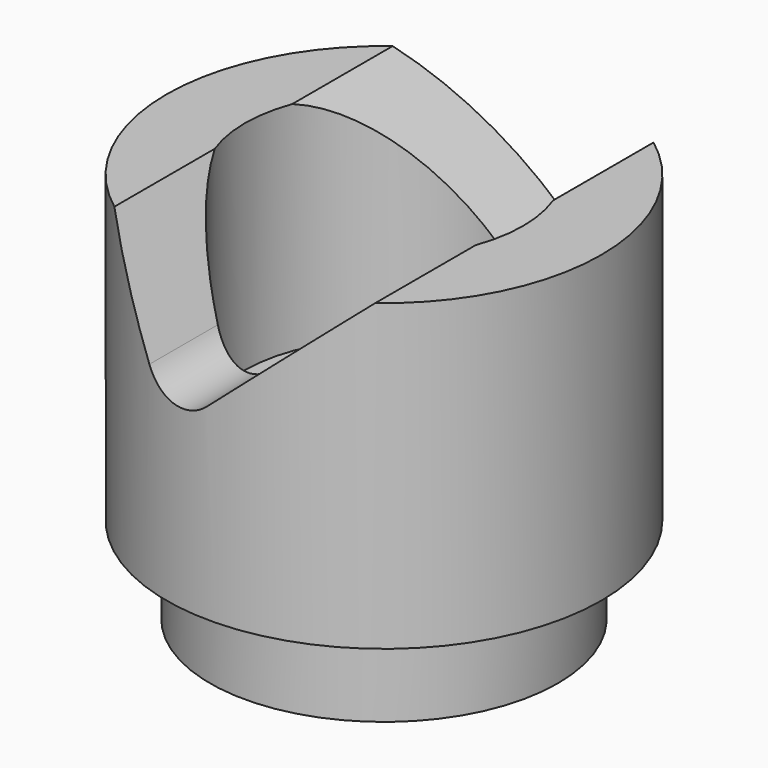
from build123d import *

# Parameters (mm, degrees)
PAD002_DEPTH    = 10
PAD001_DEPTH    = 12
SKETCH_R        = 5
SKETCH_R_2      = 1.6
PAD_DEPTH       = 9
SKETCH001_R     = 3.2
POCKET_DEPTH    = 5
SKETCH002_R     = 5
SKETCH002_R_2   = 4
POCKET001_DEPTH = 2
FILLET_R        = 1


with BuildPart() as pad002:
    # Sketch004 → Pad002 (new body)
    with BuildSketch(Plane.XZ):
        Polygon((-3, 9), (1, 5.5), (3, 9), align=None)
    extrude(amount=-PAD002_DEPTH)


with BuildPart() as pad001:
    # Sketch003 → Pad001 (new body)
    with BuildSketch(Plane.XZ):
        Polygon((-3, 9), (-1, 5.5), (3, 9), align=None)
    extrude(amount=PAD001_DEPTH)


with BuildPart() as fillet_body:
    # Sketch → Pad (new body)
    with BuildSketch(Plane.XY):
        Circle(SKETCH_R)
        Circle(SKETCH_R_2, mode=Mode.SUBTRACT)
    extrude(amount=PAD_DEPTH)

    # Sketch001 → Pocket (cut)
    with BuildSketch(Plane.XY.offset(9)):
        Circle(SKETCH001_R)
    extrude(amount=-POCKET_DEPTH, mode=Mode.SUBTRACT)

    # Sketch002 → Pocket001 (cut)
    with BuildSketch(Plane(origin=(0, 0, 0), x_dir=(1, 0, 0), z_dir=(0, 0, -1))):
        Circle(SKETCH002_R)
        Circle(SKETCH002_R_2, mode=Mode.SUBTRACT)
    extrude(amount=-POCKET001_DEPTH, mode=Mode.SUBTRACT)

    # Cut: cut Pad001
    add(pad001.part, mode=Mode.SUBTRACT)

    # Cut001: cut Pad002
    add(pad002.part, mode=Mode.SUBTRACT)

    # Fillet
    fillet_edges = [fillet_body.edges().sort_by_distance(p)[0] for p in [
        (1, 3.969358, 5.5),
        (-1, -3.969358, 5.5),
    ]]
    fillet(fillet_edges, radius=FILLET_R)


solid = fillet_body.part
